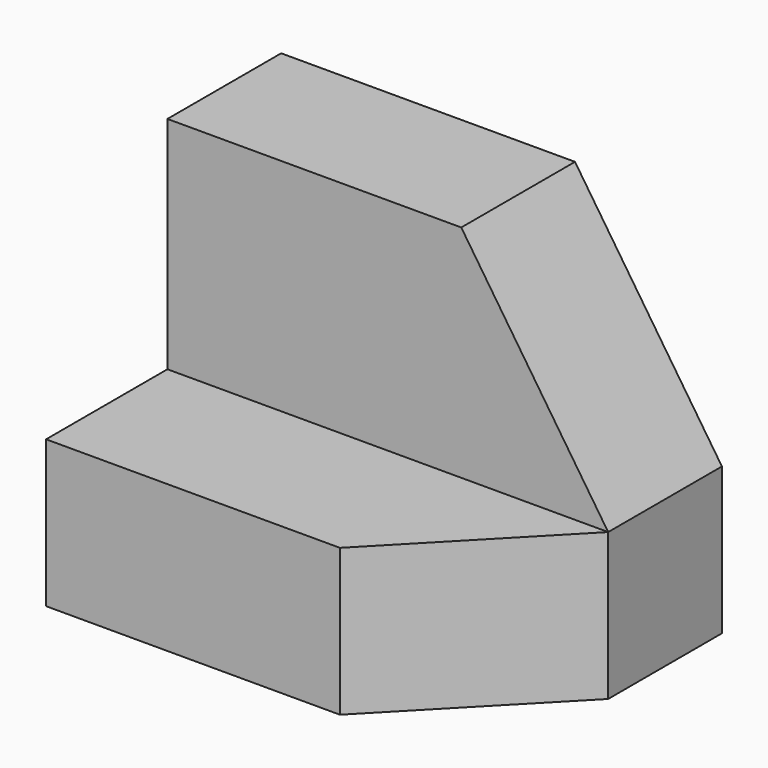
from build123d import *

# Parameters (mm, degrees)
F0_W     = 25.4
F0_H     = 31.75
F1_DEPTH = 38.1
F2_W     = 13.111336
F2_H     = 19.05
F3_DEPTH = 38.101
F5_DEPTH = 12.289664
F7_DEPTH = 25.4


with BuildPart() as f1:
    # F0 (on Right) → F1 (new body)
    with BuildSketch(Plane.YZ):
        with Locations((-0.411336, 15.875)):
            Rectangle(F0_W, F0_H)
    extrude(amount=F1_DEPTH)

    # F2 (on face) → F3 (cut, through all)
    with BuildSketch(Plane.YZ.offset(38.1)):
        with Locations((-6.555668, 22.225)):
            Rectangle(F2_W, F2_H)
    extrude(amount=-F3_DEPTH, mode=Mode.SUBTRACT)

    # F4 (on face) → F5 (cut, through all)
    with BuildSketch(Plane.XZ):
        Polygon((25.4, 31.75), (38.1, 12.7), (38.1, 31.75), align=None)
    extrude(amount=-F5_DEPTH, mode=Mode.SUBTRACT)

    # F6 (on face) → F7 (cut)
    with BuildSketch(Plane.XY.offset(12.7)):
        Polygon((38.1, -13.111336), (38.1, 0), (25.4, -13.111336), align=None)
    extrude(amount=-F7_DEPTH, mode=Mode.SUBTRACT)


solid = f1.part
